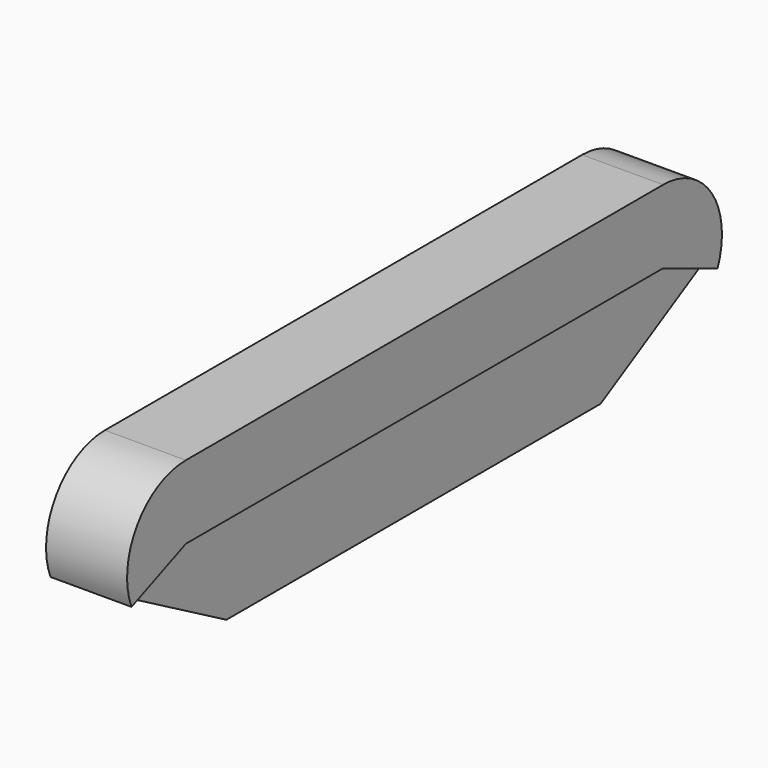
from build123d import *

# Parameters (mm, degrees)
F1_DEPTH = 5.588
F2_DEPTH = 4.826


with BuildPart() as f1:
    # F0 (on Right) → F1 (new body)
    with BuildSketch(Plane.YZ):
        with BuildLine():
            Line((-20.5613, -5.069441), (-20.5613, 0))
            ThreePointArc((-20.5613, 0), (-24.774073, -2.249551), (-25.248032, -7.00174))
            Line((-25.248032, -7.00174), (-24.843281, -6.834865))
            Line((-24.843281, -6.834865), (-20.5613, -5.069441))
        make_face()
        Polygon((20.574, 0), (0, 0), (-20.5613, 0), (-20.5613, -5.069441), (20.574, -5.069441), align=None)
        with BuildLine():
            ThreePointArc((25.261552, -6.999749), (24.786174, -2.248657), (20.574, 0))
            Line((20.574, 0), (20.574, -5.069441))
            Line((20.574, -5.069441), (24.861147, -6.834865))
            Line((24.861147, -6.834865), (25.261552, -6.999749))
        make_face()
    extrude(amount=F1_DEPTH)

    # F0 (on Right) → F2 (join)
    with BuildSketch(Plane.YZ):
        Polygon((20.574, -5.069441), (-20.5613, -5.069441), (-24.843281, -6.834865), (-16.119596, -11.742595), (16.137127, -11.742595), (24.861147, -6.834865), align=None)
    extrude(amount=F2_DEPTH)


solid = f1.part
